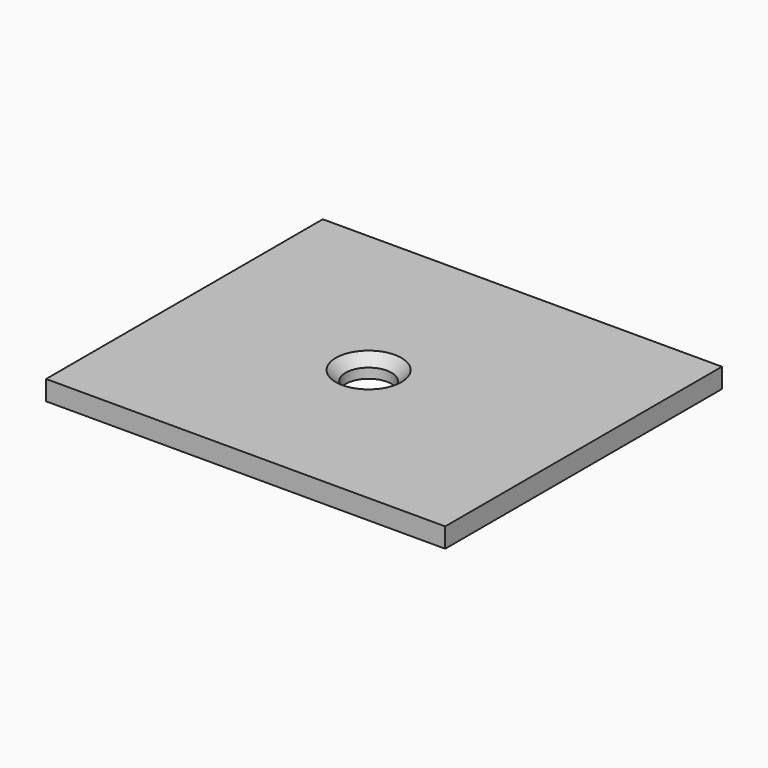
from build123d import *

# Parameters (mm, degrees)
F1_DEPTH       = 3
F3_D           = 7
F3_DEPTH       = 15.24
F3_CSINK_D     = 10
F3_CSINK_ANGLE = 90


with BuildPart() as f1:
    # F0 (on Top) → F1 (new body)
    with BuildSketch(Plane.XY):
        Polygon((32.264434, -25.753669), (32.264434, 0), (32.264434, 26.911139), (0, 26.911139), (-28.502658, 26.911139), (-28.502658, 0), (-28.502658, -25.753669), (0, -25.753669), align=None)
    extrude(amount=F1_DEPTH)

    # F3
    with Locations(Plane.XY.offset(3)):
        with Locations((0, 0)):
            CounterSinkHole(F3_D / 2, F3_CSINK_D / 2, depth=F3_DEPTH, counter_sink_angle=F3_CSINK_ANGLE)


solid = f1.part
